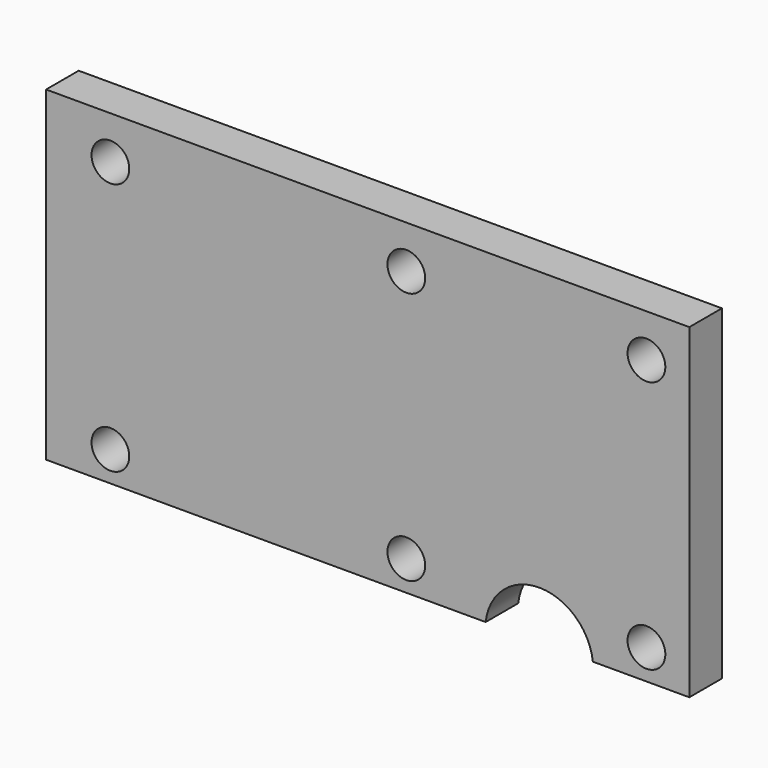
from build123d import *

# Parameters (mm, degrees)
F1_DEPTH       = 9.5
F3_D           = 8.8
F3_CSINK_D     = 9
F3_CSINK_ANGLE = 90


with BuildPart() as f1:
    # F0 (on Front) → F1 (new body)
    with BuildSketch(Plane.XZ):
        with BuildLine():
            Line((52.5, -38), (75, -38))
            Line((75, -38), (75, 38))
            Line((75, 38), (-75, 38))
            Line((-75, 38), (-75, -38))
            Line((-75, -38), (27.5, -38))
            ThreePointArc((27.5, -38), (40, -26.8485699552), (52.5, -38))
        make_face()
    extrude(amount=F1_DEPTH)

    # F3 (through all)
    with Locations(Plane(origin=(0, 0, 0), x_dir=(1, 0, 0), z_dir=(0, 1, 0))):
        with Locations((-60, -28), (65, -28), (9, 31), (-60, 31), (65, 31), (9, -28)):
            CounterSinkHole(F3_D / 2, F3_CSINK_D / 2, counter_sink_angle=F3_CSINK_ANGLE)


solid = f1.part
